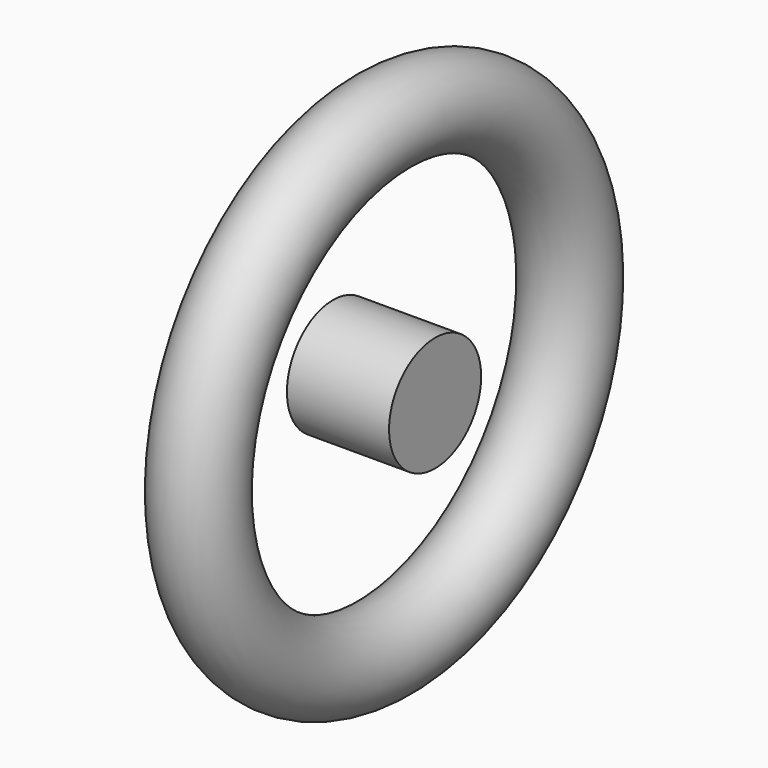
from build123d import *

# Parameters (mm, degrees)
F0_R = 22.5
F0_W = 55
F0_H = 31


with BuildPart() as f1:
    # F0 (on Front) → F1 (revolve)
    with BuildSketch(Plane.XZ):
        with Locations((0, 125)):
            Circle(F0_R)
        with Locations((0, 15.5)):
            Rectangle(F0_W, F0_H)
    revolve(axis=Axis((0, 0, 0), (1, 0, 0)))


solid = f1.part
